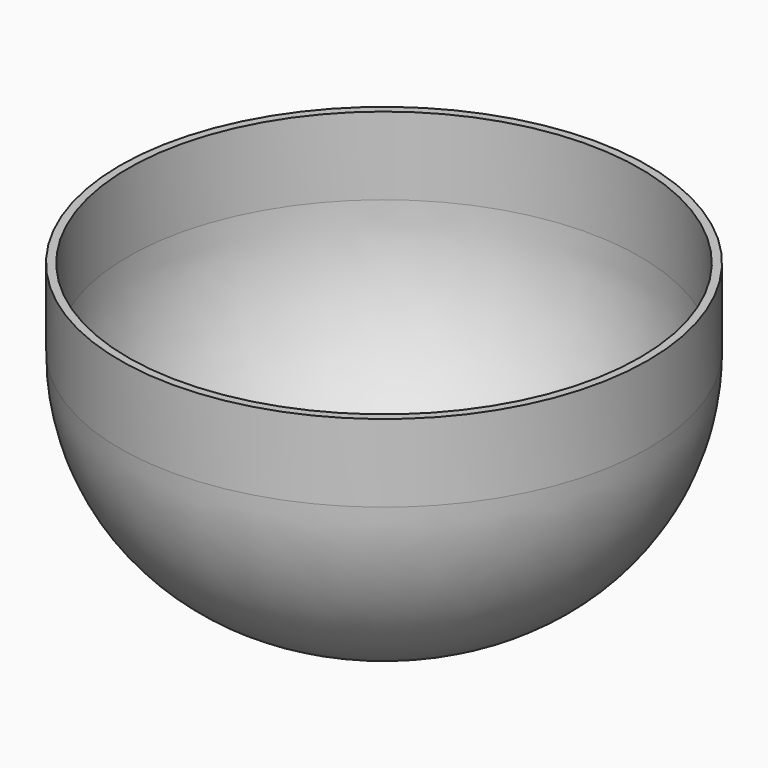
from build123d import *

# Parameters (mm, degrees)
F2_R     = 46.219438
F3_DEPTH = 12.7


with BuildPart() as f1:
    # F0 (on Front) → F1 (revolve)
    with BuildSketch(Plane.XZ):
        with BuildLine():
            Line((0, 9.069405), (0, 0))
            Line((0, 0), (46.219438, 0))
            ThreePointArc((46.219438, 0), (225.82456, 74.394878), (300.219438, 254))
            Line((300.219438, 254), (300.219438, 342.283274))
            Line((300.219438, 342.283274), (291.150033, 342.283274))
            Line((291.150033, 342.283274), (291.150033, 254))
            ThreePointArc((291.150033, 254), (219.411523, 80.807915), (46.219438, 9.069405))
            Line((46.219438, 9.069405), (0, 9.069405))
        make_face()
    revolve(axis=Axis((0, 0, 4.534702), (0, 0, -1)))

    # F2 (on face) → F3 (join)
    with BuildSketch(Plane(origin=(0, 0, 0), x_dir=(1, 0, 0), z_dir=(0, 0, -1))):
        Circle(F2_R)
    extrude(amount=F3_DEPTH)


solid = f1.part
